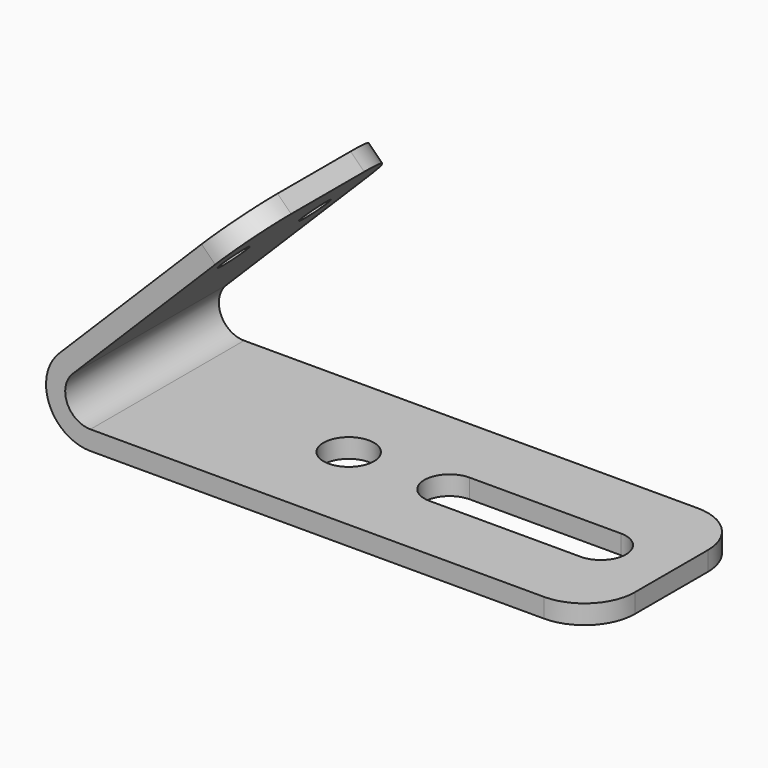
from build123d import *

# Parameters (mm, degrees)
F1_DEPTH = 9.525
F2_R     = 2.5
F3_DEPTH = 1.901
F4_R     = 1.5
F5_DEPTH = 10
F6_R     = 5


with BuildPart() as f1:
    # F0 (on Front) → F1 (new body, symmetric)
    with BuildSketch(Plane.XZ):
        with BuildLine():
            Line((14.5663996924, 20.7889393669), (-3.1112698372, 3.1112698372))
            ThreePointArc((-3.1112698372, 3.1112698372), (-4.065069943, -1.6838071024), (0, -4.4))
            Line((0, -4.4), (50, -4.4))
            Line((50, -4.4), (50, -2.5))
            Line((50, -2.5), (0, -2.5))
            ThreePointArc((0, -2.5), (-2.3096988313, -0.9567085809), (-1.767766953, 1.767766953))
            Line((-1.767766953, 1.767766953), (15.9099025767, 19.4454364826))
            Line((15.9099025767, 19.4454364826), (14.5663996924, 20.7889393669))
        make_face()
    extrude(amount=F1_DEPTH, both=True)

    # F2 (on face) → F3 (cut, through all)
    with BuildSketch(Plane.XY.offset(-2.5)):
        with BuildLine():
            Line((43, 2.5), (28, 2.5))
            ThreePointArc((28, 2.5), (25.5, 0), (28, -2.5))
            Line((28, -2.5), (43, -2.5))
            ThreePointArc((43, -2.5), (45.5, 0), (43, 2.5))
        make_face()
        with Locations((18, 0)):
            Circle(F2_R)
    extrude(amount=-F3_DEPTH, mode=Mode.SUBTRACT)

    # F4 (on face) → F5 (cut)
    with BuildSketch(Plane(origin=(-3.1112698372, 0, 3.1112698372), x_dir=(0, -1, 0), z_dir=(-0.7071067812, 0, 0.7071067812))):
        with Locations((-5.025, 17.5)):
            Circle(F4_R)
        with Locations((5.025, 17.5)):
            Circle(F4_R)
    extrude(amount=-F5_DEPTH, mode=Mode.SUBTRACT)

    # F6
    f6_edges = [f1.edges().sort_by_distance(p)[0] for p in [
        (15.238151, 9.525, 20.117188),
        (50, -9.525, -3.45),
        (15.238151, -9.525, 20.117188),
        (50, 9.525, -3.45),
    ]]
    fillet(f6_edges, radius=F6_R)


solid = f1.part
